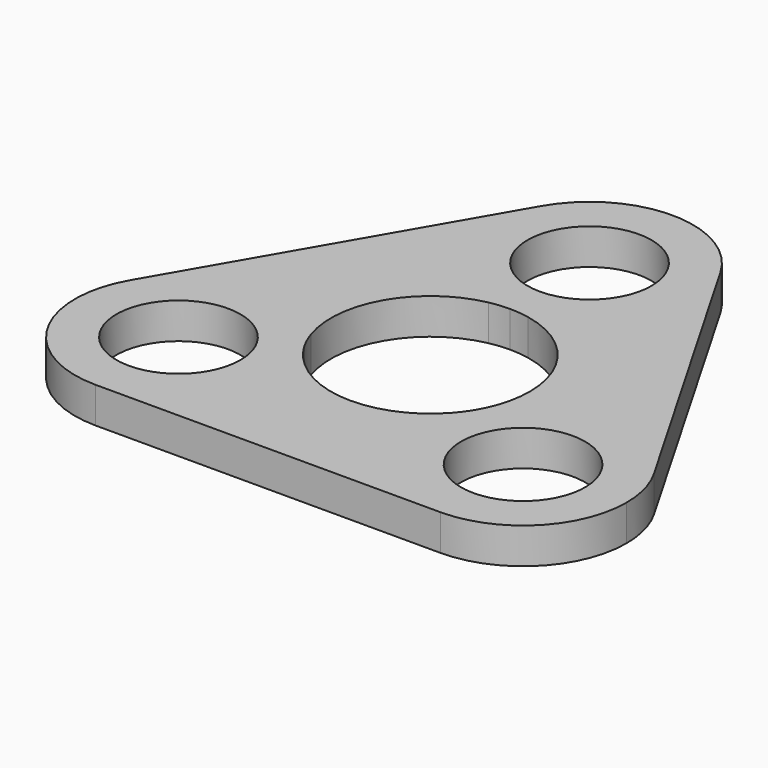
from build123d import *

# Parameters (mm, degrees)
F1_DEPTH = 6.35


with BuildPart() as f1:
    # F0 (on Top) → F1 (new body)
    with BuildSketch(Plane.XY):
        with BuildLine():
            ThreePointArc((-3.5256166775, 17.2714304215), (-1.7717808643, 17.538331572), (0, 17.6276))
            ThreePointArc((0, 17.6276), (1.7717808643, 17.538331572), (3.5256166775, 17.2714304215))
            ThreePointArc((3.5256166775, 17.2714304215), (10.6472673103, 20.33938155), (15.8626193296, 26.0778774485))
            ThreePointArc((15.8626193296, 26.0778774485), (17.699518204, 30.5040952278), (18.3261, 35.2552))
            ThreePointArc((18.3261, 35.2552), (17.7016532852, 39.9983437025), (15.8708681523, 44.41825))
            ThreePointArc((15.8708681523, 44.41825), (0, 53.5813), (-15.8708681523, 44.41825))
            ThreePointArc((-15.8708681523, 44.41825), (-18.3260981464, 35.2469575692), (-15.8626193013, 26.0778773996))
            ThreePointArc((-15.8626193013, 26.0778773996), (-10.6472672873, 20.3393815336), (-3.5256166775, 17.2714304215))
        make_face()
        with BuildLine():
            ThreePointArc((10.9855, 35.2552), (7.7679215447, 27.4872784553), (0, 24.2697))
            ThreePointArc((0, 24.2697), (-7.7679215447, 43.0231215447), (10.9855, 35.2552))
        make_face(mode=Mode.SUBTRACT)
        with BuildLine():
            ThreePointArc((16.7203058434, -5.5824416041), (16.0745311135, -7.2347585475), (15.2659494078, -8.8138))
            ThreePointArc((15.2659494078, -8.8138), (14.3027502492, -10.3035730244), (13.194689166, -11.6889888174))
            ThreePointArc((13.194689166, -11.6889888174), (15.6208706215, -28.2815748173), (30.5318988155, -35.9537))
            ThreePointArc((30.5318988155, -35.9537), (43.4904083982, -30.5861095827), (48.8579988155, -17.6276))
            ThreePointArc((48.8579988155, -17.6276), (48.2335521007, -12.8844562975), (46.4027669678, -8.46455))
            ThreePointArc((46.4027669678, -8.46455), (32.3029975616, 0.6127166212), (16.7203058434, -5.5824416041))
        make_face()
        with BuildLine():
            ThreePointArc((41.5173988155, -17.6276), (27.6886421955, -28.2387781647), (21.0181767422, -12.13485))
            ThreePointArc((21.0181767422, -12.13485), (33.3751554355, -7.0164218353), (41.5173988155, -17.6276))
        make_face(mode=Mode.SUBTRACT)
        with BuildLine():
            ThreePointArc((-13.194689166, -11.6889888174), (-14.3027502492, -10.3035730244), (-15.2659494078, -8.8138))
            ThreePointArc((-15.2659494078, -8.8138), (-16.0745311135, -7.2347585475), (-16.7203058434, -5.5824416041))
            ThreePointArc((-16.7203058434, -5.5824416041), (-32.3029975616, 0.6127166212), (-46.4027669678, -8.46455))
            ThreePointArc((-46.4027669678, -8.46455), (-46.4027669678, -26.79065), (-30.5318988155, -35.9537))
            ThreePointArc((-30.5318988155, -35.9537), (-17.5733892328, -30.5861095827), (-12.2057988155, -17.6276))
            ThreePointArc((-12.2057988155, -17.6276), (-12.4547118251, -14.6174086895), (-13.194689166, -11.6889888174))
        make_face()
        with BuildLine():
            ThreePointArc((-19.5463988155, -17.6276), (-41.1430769802, -20.47085662), (-21.0181767422, -12.13485))
            ThreePointArc((-21.0181767422, -12.13485), (-19.9207206508, -14.78434338), (-19.5463988155, -17.6276))
        make_face(mode=Mode.SUBTRACT)
        with BuildLine():
            ThreePointArc((30.5318988155, -35.9537), (15.6208706215, -28.2815748173), (13.194689166, -11.6889888174))
            ThreePointArc((13.194689166, -11.6889888174), (0, -17.6276), (-13.194689166, -11.6889888174))
            ThreePointArc((-13.194689166, -11.6889888174), (-12.4547118251, -14.6174086895), (-12.2057988155, -17.6276))
            ThreePointArc((-12.2057988155, -17.6276), (-17.5733892328, -30.5861095827), (-30.5318988155, -35.9537))
            Line((-30.5318988155, -35.9537), (5.47e-08, -35.9537))
            Line((5.47e-08, -35.9537), (30.5318988155, -35.9537))
        make_face()
        with BuildLine():
            ThreePointArc((6.1214, -29.8323), (4.3284834697, -34.160783431), (5.47e-08, -35.9537))
            ThreePointArc((5.47e-08, -35.9537), (-4.3284834697, -25.503816569), (6.1214, -29.8323))
        make_face(mode=Mode.SUBTRACT)
        with BuildLine():
            ThreePointArc((-16.7203058434, -5.5824416041), (-15.2659494078, 8.8138), (-3.5256166775, 17.2714304215))
            ThreePointArc((-3.5256166775, 17.2714304215), (-10.6472672873, 20.3393815336), (-15.8626193013, 26.0778773996))
            ThreePointArc((-15.8626193013, 26.0778773996), (-15.2490466612, 24.5994040567), (-15.0397518258, 23.012409891))
            ThreePointArc((-15.0397518258, 23.012409891), (-22.7454868429, 17.0995915686), (-26.4624396141, 26.0731100961))
            Line((-26.4624396141, 26.0731100961), (-46.4027669678, -8.46455))
            ThreePointArc((-46.4027669678, -8.46455), (-32.3029975616, 0.6127166212), (-16.7203058434, -5.5824416041))
        make_face()
        with BuildLine():
            ThreePointArc((15.8626193296, 26.0778774485), (10.6472673103, 20.33938155), (3.5256166775, 17.2714304215))
            ThreePointArc((3.5256166775, 17.2714304215), (13.6543114492, 11.1486349213), (17.6276, 0))
            ThreePointArc((17.6276, 0), (17.3992980468, -2.8278453348), (16.7203058434, -5.5824416041))
            ThreePointArc((16.7203058434, -5.5824416041), (32.3029975616, 0.6127166212), (46.4027669678, -8.46455))
            Line((46.4027669678, -8.46455), (26.4624396172, 26.0731100908))
            ThreePointArc((26.4624396172, 26.0731100908), (27.073970149, 24.5967449051), (27.2825518258, 23.012409891))
            ThreePointArc((27.2825518258, 23.012409891), (19.5741576328, 17.1003047336), (15.8626193296, 26.0778774485))
        make_face()
        with BuildLine():
            ThreePointArc((6.1214, -29.8323), (-4.3284834697, -25.503816569), (5.47e-08, -35.9537))
            ThreePointArc((5.47e-08, -35.9537), (4.3284834697, -34.160783431), (6.1214, -29.8323))
        make_face()
        with BuildLine():
            ThreePointArc((-15.0397518258, 23.012409891), (-15.2490466612, 24.5994040567), (-15.8626193013, 26.0778773996))
            ThreePointArc((-15.8626193013, 26.0778773996), (-21.163904945, 29.1338092719), (-26.4624396141, 26.0731100961))
            ThreePointArc((-26.4624396141, 26.0731100961), (-22.7454868429, 17.0995915686), (-15.0397518258, 23.012409891))
        make_face()
        with BuildLine():
            ThreePointArc((26.4624396172, 26.0731100908), (21.1639049763, 29.1338092718), (15.8626193296, 26.0778774485))
            ThreePointArc((15.8626193296, 26.0778774485), (19.5741576328, 17.1003047336), (27.2825518258, 23.012409891))
            ThreePointArc((27.2825518258, 23.012409891), (27.073970149, 24.5967449051), (26.4624396172, 26.0731100908))
        make_face()
        with BuildLine():
            ThreePointArc((-26.4624396141, 26.0731100961), (-21.163904945, 29.1338092719), (-15.8626193013, 26.0778773996))
            ThreePointArc((-15.8626193013, 26.0778773996), (-18.3260981464, 35.2469575692), (-15.8708681523, 44.41825))
            Line((-15.8708681523, 44.41825), (-26.4624396141, 26.0731100961))
        make_face()
        with BuildLine():
            ThreePointArc((18.3261, 35.2552), (17.699518204, 30.5040952278), (15.8626193296, 26.0778774485))
            ThreePointArc((15.8626193296, 26.0778774485), (21.1639049763, 29.1338092718), (26.4624396172, 26.0731100908))
            Line((26.4624396172, 26.0731100908), (15.8708681523, 44.41825))
            ThreePointArc((15.8708681523, 44.41825), (17.7016532852, 39.9983437025), (18.3261, 35.2552))
        make_face()
        with BuildLine():
            ThreePointArc((-26.4624396141, 26.0731100961), (-21.163904945, 29.1338092719), (-15.8626193013, 26.0778773996))
            ThreePointArc((-15.8626193013, 26.0778773996), (-18.3260981464, 35.2469575692), (-15.8708681523, 44.41825))
            Line((-15.8708681523, 44.41825), (-26.4624396141, 26.0731100961))
        make_face()
        with BuildLine():
            ThreePointArc((18.3261, 35.2552), (17.699518204, 30.5040952278), (15.8626193296, 26.0778774485))
            ThreePointArc((15.8626193296, 26.0778774485), (21.1639049763, 29.1338092718), (26.4624396172, 26.0731100908))
            Line((26.4624396172, 26.0731100908), (15.8708681523, 44.41825))
            ThreePointArc((15.8708681523, 44.41825), (17.7016532852, 39.9983437025), (18.3261, 35.2552))
        make_face()
    extrude(amount=F1_DEPTH)


solid = f1.part
